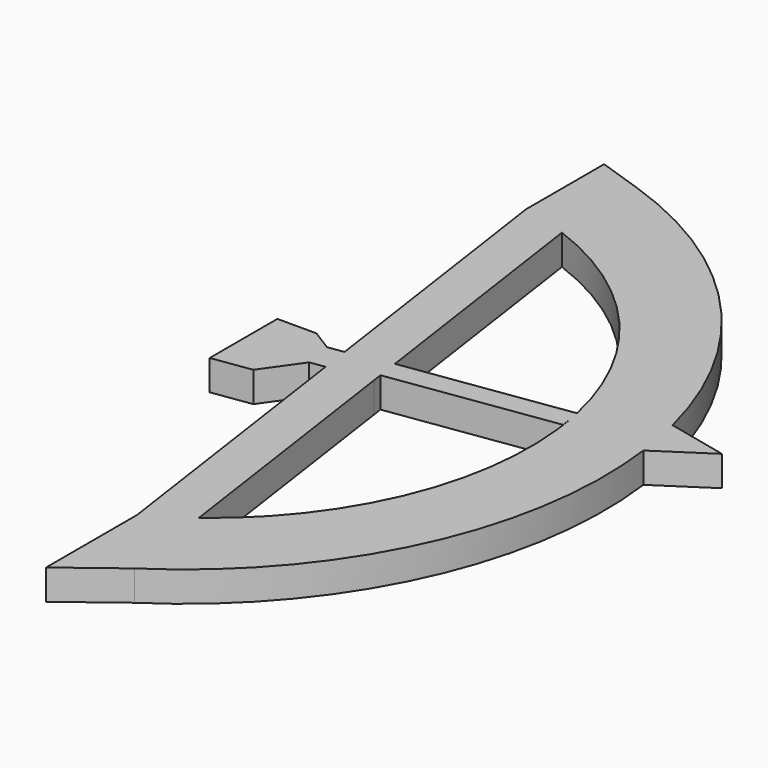
from build123d import *

# Parameters (mm, degrees)
F1_DEPTH = 1.27


with BuildPart() as f1:
    # F0 (on Top) → F1 (new body)
    with BuildSketch(Plane.XY):
        with BuildLine():
            Line((-44.650044, 11.810658), (-42.345528, 8.785976))
            ThreePointArc((-42.345528, 8.785976), (-36.013085, 16.14737), (-34.54626, 25.746243))
            ThreePointArc((-34.54626, 25.746243), (-34.705251, 26.752672), (-34.922194, 27.748218))
            ThreePointArc((-34.922194, 27.748218), (-39.059576, 35.431946), (-46.378434, 40.185042))
            Line((-46.378434, 40.185042), (-48.250854, 36.728263))
            ThreePointArc((-48.250854, 36.728263), (-47.262902, 36.481943), (-46.296505, 36.161318))
            ThreePointArc((-46.296505, 36.161318), (-40.861402, 32.378631), (-37.901269, 26.455229))
            ThreePointArc((-37.901269, 26.455229), (-37.849542, 26.205506), (-37.802577, 25.954845))
            ThreePointArc((-37.802577, 25.954845), (-37.766593, 25.742227), (-37.734035, 25.529058))
            ThreePointArc((-37.734035, 25.529058), (-37.704911, 25.315392), (-37.67923, 25.101285))
            ThreePointArc((-37.67923, 25.101285), (-38.69112, 18.30755), (-42.936155, 12.907694))
            ThreePointArc((-42.936155, 12.907694), (-43.772245, 12.326595), (-44.650044, 11.810658))
        make_face()
        with BuildLine():
            Line((-46.39398, 23.878697), (-44.650044, 11.810658))
            ThreePointArc((-44.650044, 11.810658), (-43.772245, 12.326595), (-42.936155, 12.907694))
            Line((-42.936155, 12.907694), (-44.554657, 24.107726))
            Line((-44.554657, 24.107726), (-44.61633, 24.534506))
            Line((-44.61633, 24.534506), (-46.488751, 24.534506))
            Line((-46.488751, 24.534506), (-46.39398, 23.878697))
        make_face()
        with BuildLine():
            Line((-46.569266, 25.091674), (-46.488751, 24.534506))
            Line((-46.488751, 24.534506), (-44.61633, 24.534506))
            Line((-44.61633, 24.534506), (-44.678004, 24.961286))
            Line((-44.678004, 24.961286), (-44.750853, 25.465404))
            Line((-44.750853, 25.465404), (-46.296505, 36.161318))
            ThreePointArc((-46.296505, 36.161318), (-47.262902, 36.481943), (-48.250854, 36.728263))
            Line((-48.250854, 36.728263), (-46.569266, 25.091674))
        make_face()
        Polygon((-47.014023, 23.789095), (-46.488751, 24.534506), (-47.228107, 24.996466), (-48.110645, 25.547888), (-49.754124, 25.547888), (-49.754124, 23.612555), (-49.754124, 21.995388), (-48.110645, 22.232885), align=None)
        with BuildLine():
            ThreePointArc((-34.922194, 27.748218), (-34.705251, 26.752672), (-34.54626, 25.746243))
            Line((-34.54626, 25.746243), (-32.386307, 27.169833))
            Line((-32.386307, 27.169833), (-34.922194, 27.748218))
        make_face()
        Polygon((-44.650044, 7.030156), (-42.345528, 8.785976), (-44.650044, 11.810658), align=None)
        Polygon((-48.250854, 36.728263), (-46.378434, 40.185042), (-48.250854, 40.817065), align=None)
        with BuildLine():
            Line((-44.678004, 24.961286), (-37.802577, 25.954845))
            ThreePointArc((-37.802577, 25.954845), (-37.849542, 26.205506), (-37.901269, 26.455229))
            Line((-37.901269, 26.455229), (-44.750853, 25.465404))
            Line((-44.750853, 25.465404), (-44.678004, 24.961286))
        make_face()
        Polygon((-44.61633, 24.534506), (-37.740904, 25.528065), (-37.802577, 25.954845), (-44.678004, 24.961286), align=None)
        Polygon((-47.228107, 24.996466), (-46.488751, 24.534506), (-46.569266, 25.091674), align=None)
        Polygon((-47.014023, 23.789095), (-46.39398, 23.878697), (-46.488751, 24.534506), align=None)
    extrude(amount=-F1_DEPTH)


solid = f1.part
